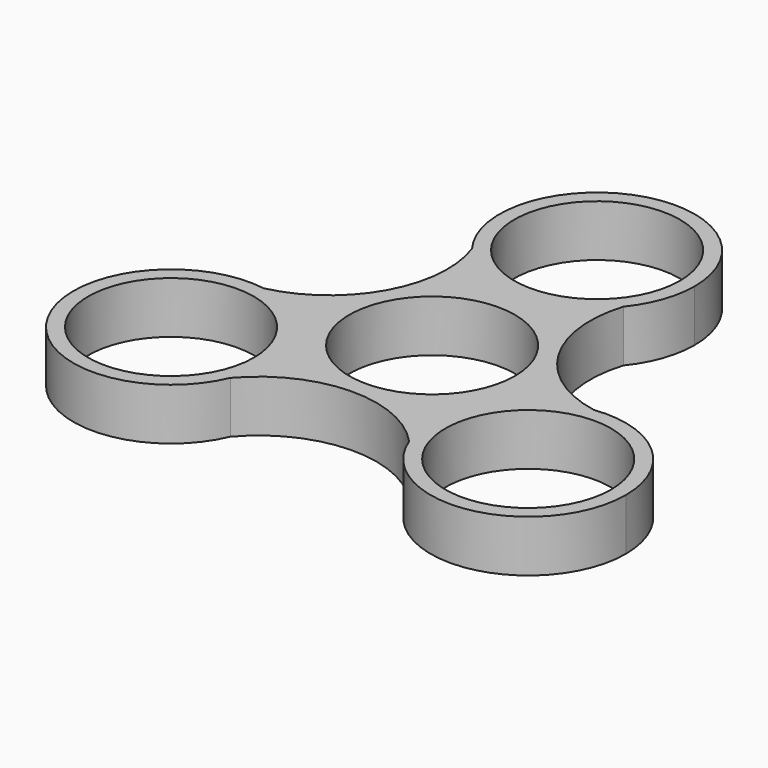
from build123d import *

# Parameters (mm, degrees)
F0_R     = 11.2
F0_R_2   = 13.2
F1_DEPTH = 7


with BuildPart() as f1:
    # F0 (on Top) → F1 (new body)
    with BuildSketch(Plane.XY):
        with BuildLine():
            ThreePointArc((10.232901, 19.541287), (12.436123, 23.454365), (13.2, 27.879616))
            ThreePointArc((13.2, 27.879616), (-4.186254, 40.398213), (-10.544739, 19.939308))
            ThreePointArc((-10.544739, 19.939308), (-0.252816, 14.682038), (10.232901, 19.541287))
        make_face()
        with Locations((0, 27.879616)):
            Circle(F0_R, mode=Mode.SUBTRACT)
        with BuildLine():
            ThreePointArc((-10.944456, -13.939808), (-14.094014, -5.382436), (-22.039701, -0.908691))
            ThreePointArc((-22.039701, -0.908691), (-35.700302, -20.319652), (-11.995578, -19.101666))
            ThreePointArc((-11.995578, -19.101666), (-11.209906, -16.573704), (-10.944456, -13.939808))
        make_face()
        with Locations((-24.144456, -13.939808)):
            Circle(F0_R, mode=Mode.SUBTRACT)
        with BuildLine():
            ThreePointArc((37.344456, -13.939808), (32.892752, -4.055107), (22.540317, -0.837643))
            ThreePointArc((22.540317, -0.837643), (12.841425, -7.122074), (11.8068, -18.632596))
            ThreePointArc((11.8068, -18.632596), (26.530137, -26.922432), (37.344456, -13.939808))
        make_face()
        with Locations((24.144456, -13.939808)):
            Circle(F0_R, mode=Mode.SUBTRACT)
        with BuildLine():
            ThreePointArc((10.232901, 19.541287), (-0.252816, 14.682038), (-10.544739, 19.939308))
            ThreePointArc((-10.544739, 19.939308), (-11.60274, 6.92967), (-22.039701, -0.908691))
            ThreePointArc((-22.039701, -0.908691), (-14.094014, -5.382436), (-10.944456, -13.939808))
            ThreePointArc((-10.944456, -13.939808), (-11.209906, -16.573704), (-11.995578, -19.101666))
            ThreePointArc((-11.995578, -19.101666), (-0.1999, -13.513102), (11.8068, -18.632596))
            ThreePointArc((11.8068, -18.632596), (12.841425, -7.122074), (22.540317, -0.837643))
            ThreePointArc((22.540317, -0.837643), (11.80264, 6.583433), (10.232901, 19.541287))
        make_face()
        Circle(F0_R_2, mode=Mode.SUBTRACT)
        Circle(F0_R_2)
        Circle(F0_R, mode=Mode.SUBTRACT)
    extrude(amount=F1_DEPTH)


solid = f1.part
